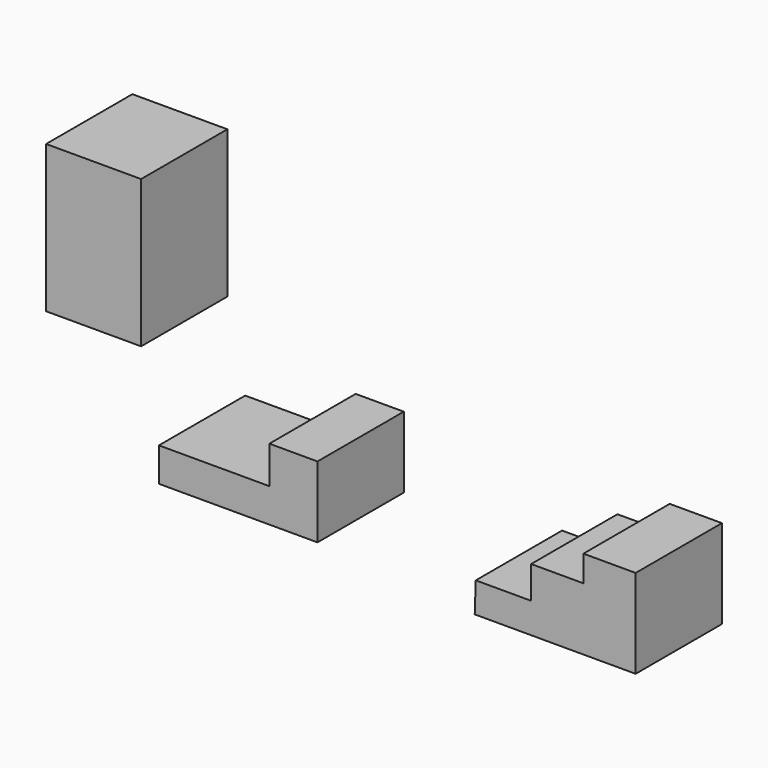
from build123d import *

# Parameters (mm, degrees)
F0_W     = 11.3300876692
F0_H     = 7.9730246216
F0_H_2   = 8.8122906163
F0_W_2   = 12.3092299327
F0_W_3   = 13.7080065906
F1_DEPTH = 25.4
F3_DEPTH = 25.4
F4_W     = 10.9104551375
F4_H     = 12.0294764638
F4_H_2   = 12.3092290014
F4_W_2   = 11.469963938
F4_H_3   = 10.350946337
F5_DEPTH = 25.4
F6_DEPTH = 25.4


with BuildPart() as f1:
    # F0 (on Front) → F1 (new body)
    with BuildSketch(Plane.XZ):
        with Locations((-5.6650438346, -3.9865123108)):
            Rectangle(F0_W, F0_H)
        with Locations((-5.6650438346, 4.4061453082)):
            Rectangle(F0_W, F0_H_2)
        with Locations((-17.4847026356, -3.9865123108)):
            Rectangle(F0_W_2, F0_H)
        with Locations((-30.4933208972, -3.9865123108)):
            Rectangle(F0_W_3, F0_H)
    extrude(amount=F1_DEPTH)

    # F6 (add): a face of the model
    f6_faces = [f1.faces().sort_by_distance(p)[0] for p in [
        (-15.4071045328, -25.4, -1.8790556485),
    ]]
    extrude(f6_faces, amount=-F6_DEPTH)


with BuildPart() as f3:
    # F2 (on Front) → F3 (new body)
    with BuildSketch(Plane.XZ):
        Polygon((50.3246076405, -3.7186222617), (37.2795127332, -3.7186222617), (37.0333790779, -10.8565036207), (74.9379843473, -10.8565036207), (74.9379843473, -3.7186222617), (74.9379843473, 10.0648719817), (62.6313015819, 10.0648719817), (62.6313015819, 3.911526408), (50.3246076405, 3.911526408), align=None)
    extrude(amount=F3_DEPTH)


with BuildPart() as f5:
    # F4 (on Front) → F5 (new body)
    with BuildSketch(Plane.XZ):
        with Locations((-58.4688466042, 25.1779723912)):
            Rectangle(F4_W, F4_H)
        with Locations((-58.4688466042, 37.3473251238)):
            Rectangle(F4_W, F4_H_2)
        with Locations((-47.2786370665, 25.1779723912)):
            Rectangle(F4_W_2, F4_H)
        with Locations((-47.2786370665, 37.3473251238)):
            Rectangle(F4_W_2, F4_H_2)
        with Locations((-58.4688466042, 48.677412793)):
            Rectangle(F4_W, F4_H_3)
        with Locations((-47.2786370665, 48.677412793)):
            Rectangle(F4_W_2, F4_H_3)
    extrude(amount=F5_DEPTH)


solid = Compound([f1.part, f3.part, f5.part])
